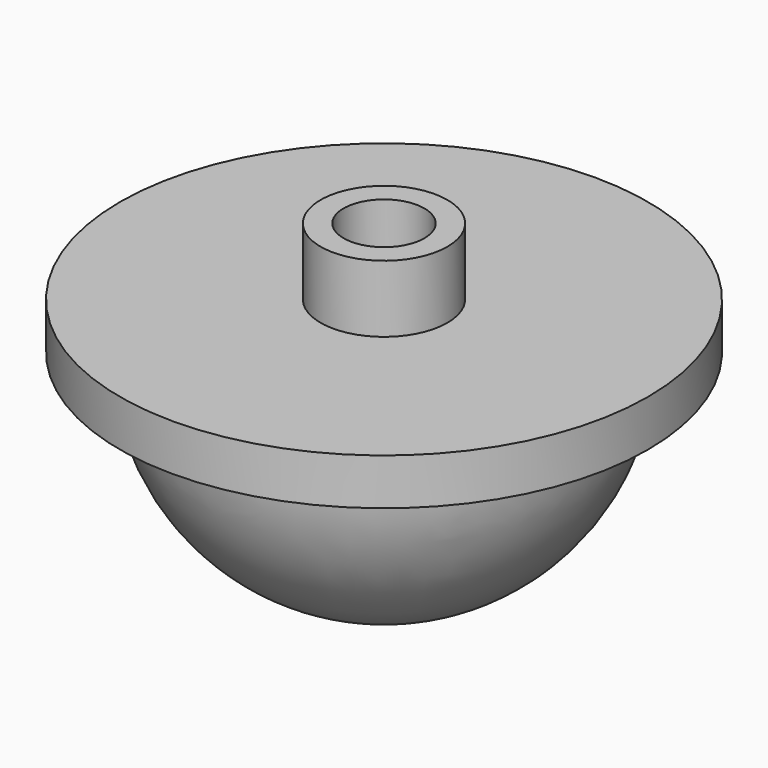
from build123d import *


with BuildPart() as f1:
    # F0 (on Front) → F1 (revolve)
    with BuildSketch(Plane.XZ):
        with BuildLine():
            Line((1.5748, 24.723661), (1.5748, 2.625661))
            ThreePointArc((1.5748, 2.625661), (18.329229, 10.50717), (25.146, 27.7223))
            Line((25.146, 27.7223), (31.1912, 27.7223))
            Line((31.1912, 27.7223), (31.1912, 33.212919))
            Line((31.1912, 33.212919), (7.491138, 33.212919))
            Line((7.491138, 33.212919), (7.491138, 41.128229))
            Line((7.491138, 41.128229), (4.7752, 41.128229))
            Line((4.7752, 41.128229), (4.7752, 33.092991))
            Line((4.7752, 33.092991), (0, 33.092991))
            Line((0, 33.092991), (0, 24.723661))
            Line((0, 24.723661), (1.5748, 24.723661))
        make_face()
    revolve(axis=Axis((0, 0, 28.908326), (0, 0, -1)))


solid = f1.part
